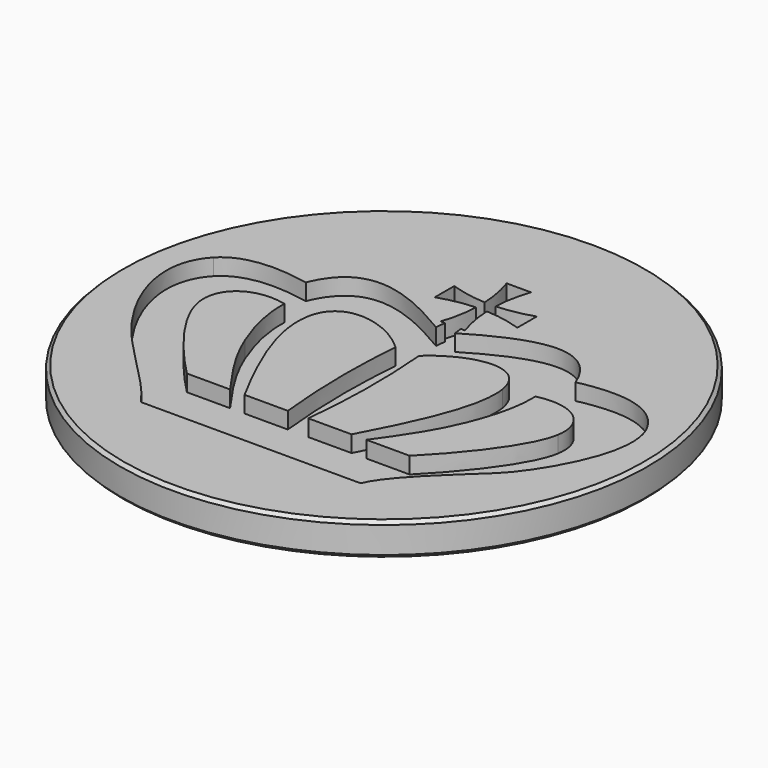
from build123d import *

# Parameters (mm, degrees)
POCKET_DEPTH = 1.25


with BuildPart() as part:
    # Sketch (on DatumPlane) → Revolution (revolve)
    with BuildSketch(Plane.YZ):
        Polygon((0, 0), (0, -2.5), (19.75, -2.5), (20, -2.25), (20, -0.25), (19.75, 0), align=None)
    revolve(axis=Axis((0, 0, 0), (0, 0, 1)))

    # Sketch005 → Pocket (cut)
    with BuildSketch(Plane.XY):
        with BuildLine():
            add(Edge.make_bspline(
                [(17.199673, 3.39502), (15.904895, 5.827494), (13.139208, 6.003619), (10.22119, 5.380033)],
                knots=[0, 0, 0, 0, 1, 1, 1, 1], degree=3))
            add(Edge.make_bspline(
                [(10.22119, 5.380033), (8.593193, 9.516663), (4.81358, 8.293289), (0.719788, 5.827494)],
                knots=[0, 0, 0, 0, 1, 1, 1, 1], degree=3))
            add(Edge.make_bspline(
                [(0.719788, 5.827494), (0.649422, 6.478351)],
                knots=[0, 0, 41.237809, 41.237809], degree=1))
            add(Edge.make_bspline(
                [(0.649422, 6.478351), (0.817118, 6.478351), (0.936272, 6.478351), (0.959337, 6.478351)],
                knots=[0, 0, 0, 0, 1, 1, 1, 1], degree=3))
            add(Edge.make_bspline(
                [(0.959337, 6.478351), (0.65764, 7.35953), (0.487238, 8.273468), (0.447992, 9.191671)],
                knots=[0, 0, 0, 0, 1, 1, 1, 1], degree=3))
            add(Edge.make_bspline(
                [(0.447992, 9.191671), (1.366194, 9.152423), (2.280132, 8.982021), (3.16131, 8.680326)],
                knots=[0, 0, 0, 0, 1, 1, 1, 1], degree=3))
            add(Edge.make_bspline(
                [(3.16131, 8.680326), (3.16131, 9.295984), (3.16131, 9.911639), (3.16131, 10.527295)],
                knots=[0, 0, 0, 0, 1, 1, 1, 1], degree=3))
            add(Edge.make_bspline(
                [(3.16131, 10.527295), (2.280132, 10.225599), (1.366194, 10.055198), (0.447992, 10.01595)],
                knots=[0, 0, 0, 0, 1, 1, 1, 1], degree=3))
            add(Edge.make_bspline(
                [(0.447992, 10.01595), (0.487238, 10.934154), (0.65764, 11.848094), (0.959337, 12.729271)],
                knots=[0, 0, 0, 0, 1, 1, 1, 1], degree=3))
            add(Edge.make_bspline(
                [(0.959337, 12.729271), (0.343681, 12.729271), (-0.271977, 12.729271), (-0.887634, 12.729271)],
                knots=[0, 0, 0, 0, 1, 1, 1, 1], degree=3))
            add(Edge.make_bspline(
                [(-0.887634, 12.729271), (-0.585937, 11.848092), (-0.415537, 10.934152), (-0.376289, 10.01595)],
                knots=[0, 0, 0, 0, 1, 1, 1, 1], degree=3))
            add(Edge.make_bspline(
                [(-0.376289, 10.01595), (-1.294491, 10.055198), (-2.20843, 10.2256), (-3.089607, 10.527295)],
                knots=[0, 0, 0, 0, 1, 1, 1, 1], degree=3))
            add(Edge.make_bspline(
                [(-3.089607, 10.527295), (-3.089607, 9.911639), (-3.089607, 9.295983), (-3.089607, 8.680326)],
                knots=[0, 0, 0, 0, 1, 1, 1, 1], degree=3))
            add(Edge.make_bspline(
                [(-3.089607, 8.680326), (-2.20843, 8.982023), (-1.294491, 9.152423), (-0.376289, 9.191671)],
                knots=[0, 0, 0, 0, 1, 1, 1, 1], degree=3))
            add(Edge.make_bspline(
                [(-0.376289, 9.191671), (-0.415537, 8.273468), (-0.585937, 7.359528), (-0.887634, 6.478351)],
                knots=[0, 0, 0, 0, 1, 1, 1, 1], degree=3))
            add(Edge.make_bspline(
                [(-0.887634, 6.478351), (-0.857358, 6.478351), (-0.732021, 6.478351), (-0.559748, 6.478351)],
                knots=[0, 0, 0, 0, 1, 1, 1, 1], degree=3))
            add(Edge.make_bspline(
                [(-0.559748, 6.478351), (-0.641636, 5.73229)],
                knots=[0, 0, 47.278241, 47.278241], degree=1))
            add(Edge.make_bspline(
                [(-0.641636, 5.73229), (-4.754593, 8.196928), (-8.497006, 9.617448), (-10.238244, 5.399072)],
                knots=[0, 0, 0, 0, 1, 1, 1, 1], degree=3))
            add(Edge.make_bspline(
                [(-10.238244, 5.399072), (-12.781371, 5.921869), (-15.207916, 5.846532), (-16.502695, 4.485108)],
                knots=[0, 0, 0, 0, 1, 1, 1, 1], degree=3))
            add(Edge.make_bspline(
                [(-16.502695, 4.485108), (-19.031136, 1.826532), (-16.97872, -3.140769), (-13.656084, -6.796618)],
                knots=[0, 0, 0, 0, 1, 1, 1, 1], degree=3))
            add(Edge.make_bspline(
                [(-13.656084, -6.796618), (-11.875374, -8.755908), (-9.359237, -11.018558), (-8.286551, -12.670729)],
                knots=[0, 0, 0, 0, 1, 1, 1, 1], degree=3))
            add(Edge.make_bspline(
                [(-8.286551, -12.670729), (8.364704, -12.670729)],
                knots=[0, 0, 1048.89791, 1048.89791], degree=1))
            add(Edge.make_bspline(
                [(8.364704, -12.670729), (9.202504, -10.757117), (12.053892, -8.352741), (13.859035, -6.607594)],
                knots=[0, 0, 0, 0, 1, 1, 1, 1], degree=3))
            add(Edge.make_bspline(
                [(13.859035, -6.607594), (15.505033, -5.01629), (18.826551, 0.33865), (17.199673, 3.39502)],
                knots=[0, 0, 0, 0, 1, 1, 1, 1], degree=3))
        make_face()
        with BuildLine():
            add(Edge.make_bspline(
                [(9.506608, 2.472112), (9.566387, 0.610416), (9.023596, -1.104203), (8.43058, -2.600588)],
                knots=[0, 0, 0, 0, 1, 1, 1, 1], degree=3))
            add(Edge.make_bspline(
                [(8.43058, -2.600588), (7.541741, -4.843446), (6.124803, -6.733903), (5.159797, -8.108826)],
                knots=[0, 0, 0, 0, 1, 1, 1, 1], degree=3))
            add(Edge.make_bspline(
                [(5.159797, -8.108826), (8.43058, -8.108826)],
                knots=[0, 0, 206.0336, 206.0336], degree=1))
            add(Edge.make_bspline(
                [(8.43058, -8.108826), (10.431762, -6.10195), (13.237427, -2.736096), (13.605757, -0.542472)],
                knots=[0, 0, 0, 0, 1, 1, 1, 1], degree=3))
            add(Edge.make_bspline(
                [(13.605757, -0.542472), (13.983087, 1.704704), (12.0088, 3.069906), (9.506608, 2.472112)],
                knots=[0, 0, 0, 0, 1, 1, 1, 1], degree=3))
        make_face(mode=Mode.SUBTRACT)
        with BuildLine():
            add(Edge.make_bspline(
                [(7.395219, 2.010956), (6.894209, 5.051162), (3.230589, 4.436291), (0.870734, 2.238688)],
                knots=[0, 0, 0, 0, 1, 1, 1, 1], degree=3))
            add(Edge.make_bspline(
                [(0.870734, 2.238688), (1.159981, -1.194989), (1.12982, -4.644717), (0.756864, -8.111676)],
                knots=[0, 0, 0, 0, 1, 1, 1, 1], degree=3))
            add(Edge.make_bspline(
                [(0.756864, -8.111676), (0.756864, -8.111677)],
                knots=[0, 0, 0.0001, 0.0001], degree=1))
            add(Edge.make_bspline(
                [(0.756864, -8.111677), (4.03619, -8.111677)],
                knots=[0, 0, 206.5717, 206.5717], degree=1))
            add(Edge.make_bspline(
                [(4.03619, -8.111677), (6.407437, -3.693701), (7.774117, -0.288253), (7.395219, 2.010956)],
                knots=[0, 0, 0, 0, 1, 1, 1, 1], degree=3))
        make_face(mode=Mode.SUBTRACT)
        with BuildLine():
            add(Edge.make_bspline(
                [(-9.516603, 2.472114), (-12.018792, 3.069908), (-13.99308, 1.704704), (-13.615756, -0.542474)],
                knots=[0, 0, 0, 0, 1, 1, 1, 1], degree=3))
            add(Edge.make_bspline(
                [(-13.615756, -0.542474), (-13.247425, -2.736097), (-10.441758, -6.101951), (-8.440576, -8.108828)],
                knots=[0, 0, 0, 0, 1, 1, 1, 1], degree=3))
            add(Edge.make_bspline(
                [(-8.440576, -8.108828), (-5.169793, -8.108828)],
                knots=[0, 0, 206.0336, 206.0336], degree=1))
            add(Edge.make_bspline(
                [(-5.169793, -8.108828), (-6.134802, -6.733903), (-7.551735, -4.843448), (-8.440576, -2.600593)],
                knots=[0, 0, 0, 0, 1, 1, 1, 1], degree=3))
            add(Edge.make_bspline(
                [(-8.440576, -2.600593), (-9.03359, -1.104203), (-9.576383, 0.610415), (-9.516603, 2.472114)],
                knots=[0, 0, 0, 0, 1, 1, 1, 1], degree=3))
        make_face(mode=Mode.SUBTRACT)
        with BuildLine():
            add(Edge.make_bspline(
                [(-0.905534, 2.238688), (-3.265394, 4.436293), (-6.929014, 5.051165), (-7.430021, 2.010958)],
                knots=[0, 0, 0, 0, 1, 1, 1, 1], degree=3))
            add(Edge.make_bspline(
                [(-7.430021, 2.010958), (-7.808915, -0.288249), (-6.442239, -3.693696), (-4.070992, -8.111676)],
                knots=[0, 0, 0, 0, 1, 1, 1, 1], degree=3))
            add(Edge.make_bspline(
                [(-4.070992, -8.111676), (-0.791666, -8.111676)],
                knots=[0, 0, 206.57171, 206.57171], degree=1))
            add(Edge.make_bspline(
                [(-0.791666, -8.111676), (-1.164621, -4.644717), (-1.194783, -1.194989), (-0.905534, 2.238688)],
                knots=[0, 0, 0, 0, 1, 1, 1, 1], degree=3))
        make_face(mode=Mode.SUBTRACT)
    extrude(amount=-POCKET_DEPTH, mode=Mode.SUBTRACT)


solid = part.part
